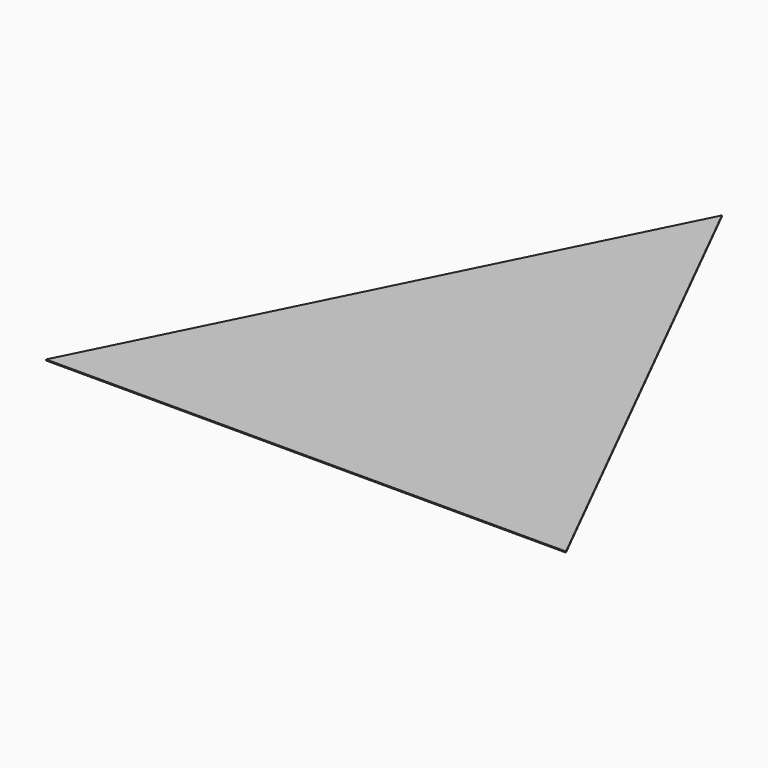
from build123d import *

# Parameters (mm, degrees)
PAD_DEPTH = 0.6


with BuildPart() as part:
    # Sketch → Pad (new body)
    with BuildSketch(Plane.XY):
        Polygon((-152.4, 0), (0, 304.8), (152.4, 0), (0, 0), align=None)
    extrude(amount=PAD_DEPTH)


solid = part.part
